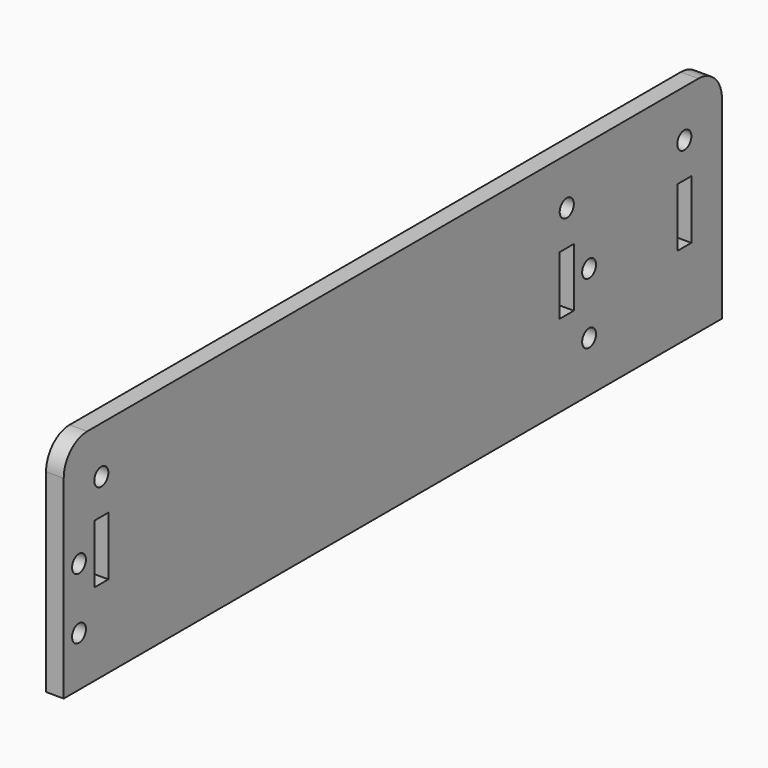
from build123d import *

# Parameters (mm, degrees)
F0_R     = 1.475
F0_W     = 3
F0_H     = 10
F0_R_2   = 1.5
F1_DEPTH = 3
F2_R     = 5


with BuildPart() as f1:
    # F0 (on Right) → F1 (new body)
    with BuildSketch(Plane.YZ):
        Polygon((-70, 0), (0, 0), (70, 0), (70, 38), (35.5, 38), (-70, 38), align=None)
        with Locations((-66.75, 8.5)):
            Circle(F0_R, mode=Mode.SUBTRACT)
        with Locations((-66.75, 18.9)):
            Circle(F0_R, mode=Mode.SUBTRACT)
        with Locations((41.75, 8.6)):
            Circle(F0_R, mode=Mode.SUBTRACT)
        with Locations((-62, 19)):
            Rectangle(F0_W, F0_H, mode=Mode.SUBTRACT)
        with Locations((-62, 30)):
            Circle(F0_R_2, mode=Mode.SUBTRACT)
        with Locations((37, 19)):
            Rectangle(F0_W, F0_H, mode=Mode.SUBTRACT)
        with Locations((41.75, 19)):
            Circle(F0_R, mode=Mode.SUBTRACT)
        with Locations((62, 19)):
            Rectangle(F0_W, F0_H, mode=Mode.SUBTRACT)
        with Locations((37, 30)):
            Circle(F0_R_2, mode=Mode.SUBTRACT)
        with Locations((62, 30)):
            Circle(F0_R_2, mode=Mode.SUBTRACT)
    extrude(amount=F1_DEPTH)

    # F2
    f2_edges = [f1.edges().sort_by_distance(p)[0] for p in [
        (1.5, 70, 38),
        (1.5, -70, 38),
    ]]
    fillet(f2_edges, radius=F2_R)


solid = f1.part
